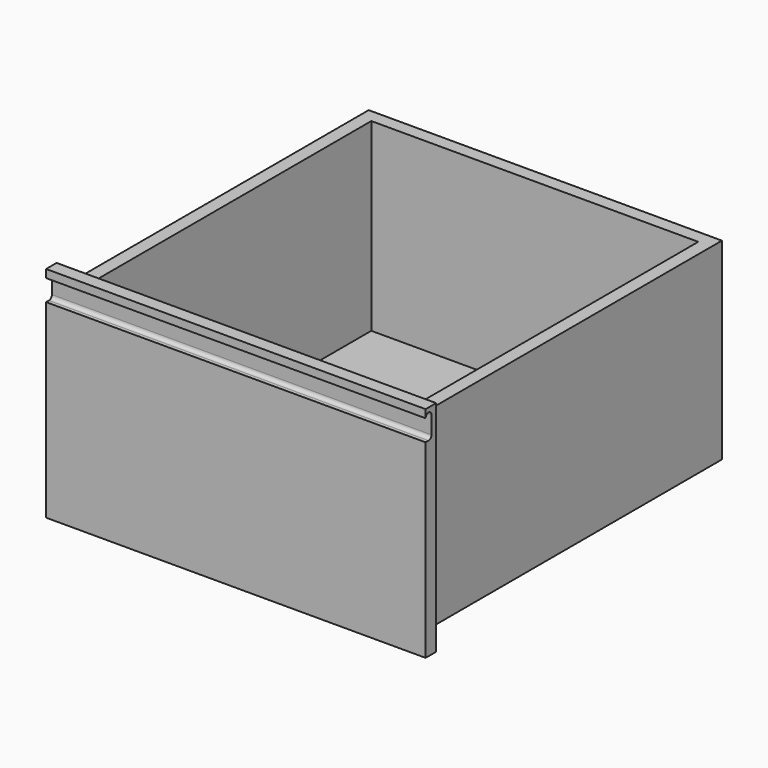
from build123d import *

# Parameters (mm, degrees)
F0_W     = 520
F0_H     = 300
F0_W_2   = 484
F0_H_2   = 264
F1_DEPTH = 18
F2_DEPTH = 530
F3_W     = 448
F3_H     = 476
F4_DEPTH = 253
F6_DEPTH = 545


with BuildPart() as f1:
    # F0 (on Front) → F1 (new body)
    with BuildSketch(Plane.XZ):
        with Locations((260, 150)):
            Rectangle(F0_W, F0_H)
        with Locations((260, 150)):
            Rectangle(F0_W_2, F0_H_2, mode=Mode.SUBTRACT)
    extrude(amount=-F1_DEPTH)

    # F0 (on Front) → F2 (join)
    with BuildSketch(Plane.XZ):
        with Locations((260, 150)):
            Rectangle(F0_W_2, F0_H_2)
    extrude(amount=-F2_DEPTH)

    # F3 (on face) → F4 (cut)
    with BuildSketch(Plane.XY.offset(282)):
        with Locations((260, 274)):
            Rectangle(F3_W, F3_H)
    extrude(amount=-F4_DEPTH, mode=Mode.SUBTRACT)

    # F5 (on face) → F6 (cut)
    with BuildSketch(Plane(origin=(0, 0, 0), x_dir=(0, -1, 0), z_dir=(-1, 0, 0))):
        with BuildLine():
            Line((-5, 260), (0, 260))
            Line((0, 260), (0, 289))
            ThreePointArc((0, 289), (-5, 294), (-10, 289))
            Line((-10, 289), (-10, 265))
            ThreePointArc((-10, 265), (-8.535534, 261.464466), (-5, 260))
        make_face()
    extrude(amount=-F6_DEPTH, mode=Mode.SUBTRACT)


solid = f1.part
